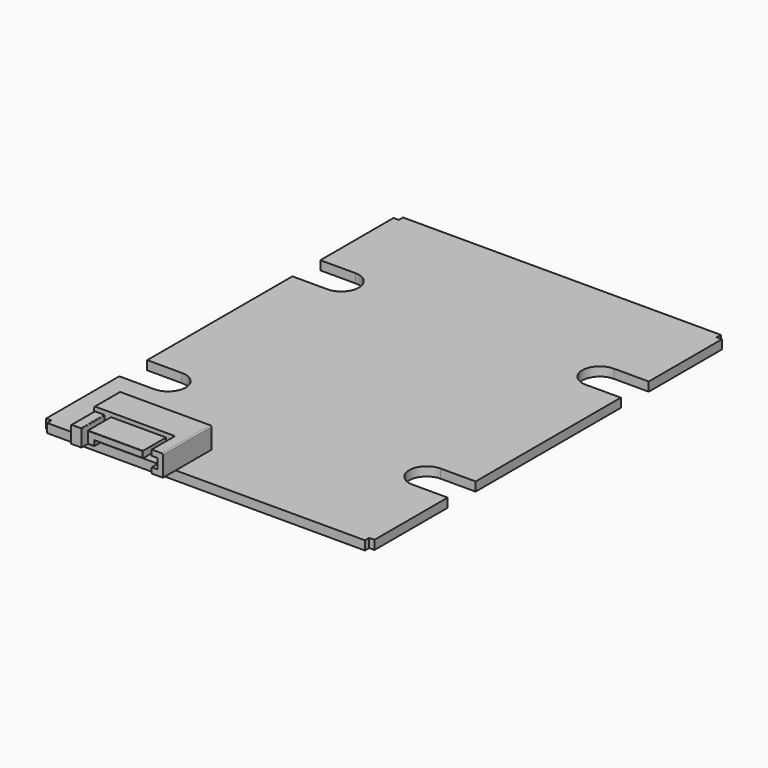
from build123d import *

# Parameters (mm, degrees)
PAD_DEPTH       = 1.7
SKETCH007_W     = 17.37
SKETCH007_H     = 11.44
PAD004_DEPTH    = 4
POCKET002_DEPTH = 5.49
FILLET004_R     = 0.2
FILLET005_R     = 0.2
FILLET006_R     = 0.2
FILLET011_R     = 0.1


with BuildPart() as part:
    # Sketch → Pad (new body)
    with BuildSketch(Plane.XY):
        with BuildLine():
            Line((0, 0), (30, 0))
            Line((30, 0), (30, 1))
            Line((30, 1), (31, 1))
            Line((31, 1), (31, 18.27))
            Line((31, 18.27), (24.4, 18.27))
            ThreePointArc((24.4, 24.87), (21.1, 21.57), (24.4, 18.27))
            Line((24.4, 24.87), (31, 24.87))
            Line((31, 24.87), (31, 59.13))
            Line((31, 59.13), (24.4, 59.13))
            ThreePointArc((24.4, 65.73), (21.1, 62.43), (24.4, 59.13))
            Line((24.4, 65.73), (31, 65.73))
            Line((31, 65.73), (31, 83))
            Line((30, 83), (31, 83))
            Line((30, 84), (30, 83))
            Line((30, 84), (0, 84))
            Line((0, 84), (-30, 84))
            Line((-30, 84), (-30, 83))
            Line((-30, 83), (-31, 83))
            Line((-31, 83), (-31, 65.73))
            Line((-31, 65.73), (-24.4, 65.73))
            ThreePointArc((-24.4, 59.13), (-21.1, 62.43), (-24.4, 65.73))
            Line((-24.4, 59.13), (-31, 59.13))
            Line((-31, 59.13), (-31, 24.87))
            Line((-31, 24.87), (-24.4, 24.87))
            ThreePointArc((-24.4, 18.27), (-21.1, 21.57), (-24.4, 24.87))
            Line((-24.4, 18.27), (-31, 18.27))
            Line((-31, 18.27), (-31, 1))
            Line((-31, 1), (-30, 1))
            Line((-30, 1), (-30, 0))
            Line((-30, 0), (0, 0))
        make_face()
    extrude(amount=PAD_DEPTH)

    # Sketch007 → Pad004 (new body)
    with BuildSketch(Plane.XY.offset(1.7)):
        with Locations((-14.415, 2.72)):
            Rectangle(SKETCH007_W, SKETCH007_H)
    extrude(amount=PAD004_DEPTH)

    # Sketch013 → Pocket002 (cut)
    with BuildSketch(Plane.XZ.offset(3)):
        Polygon((-23.1, 5.7), (-23.1, 4.89), (-21.13, 4.89), (-21.13, 1.7), (-7.85, 1.7), (-7.85, 2.75), (-6.78, 2.75), (-6.78, 4.65), (-7.85, 4.65), (-7.85, 5.7), align=None)
        Polygon((-19.93, 2.7), (-19.93, 4.92), (-9.53, 4.92), (-9.53, 3.67), (-18.74, 3.67), (-18.74, 2.7), align=None, mode=Mode.SUBTRACT)
    extrude(amount=-POCKET002_DEPTH, mode=Mode.SUBTRACT)

    # Fillet004
    fillet004_edges = [part.edges().sort_by_distance(p)[0] for p in [
        (-5.73, 2.72, 5.7),
    ]]
    fillet(fillet004_edges, radius=FILLET004_R)

    # Fillet005
    fillet005_edges = [part.edges().sort_by_distance(p)[0] for p in [
        (-23.1, 5.465, 5.7),
    ]]
    fillet(fillet005_edges, radius=FILLET005_R)

    # Fillet006
    fillet006_edges = [part.edges().sort_by_distance(p)[0] for p in [
        (-23.1, -0.255, 4.89),
    ]]
    fillet(fillet006_edges, radius=FILLET006_R)

    # Fillet011
    fillet011_edges = [part.edges().sort_by_distance(p)[0] for p in [
        (-21.13, -0.255, 4.89),
        (-19.335, -3, 2.7),
        (-19.93, -3, 3.81),
        (-14.73, -3, 4.92),
        (-9.53, -3, 4.295),
        (-14.135, -3, 3.67),
        (-18.74, -3, 3.185),
    ]]
    fillet(fillet011_edges, radius=FILLET011_R)


solid = part.part
